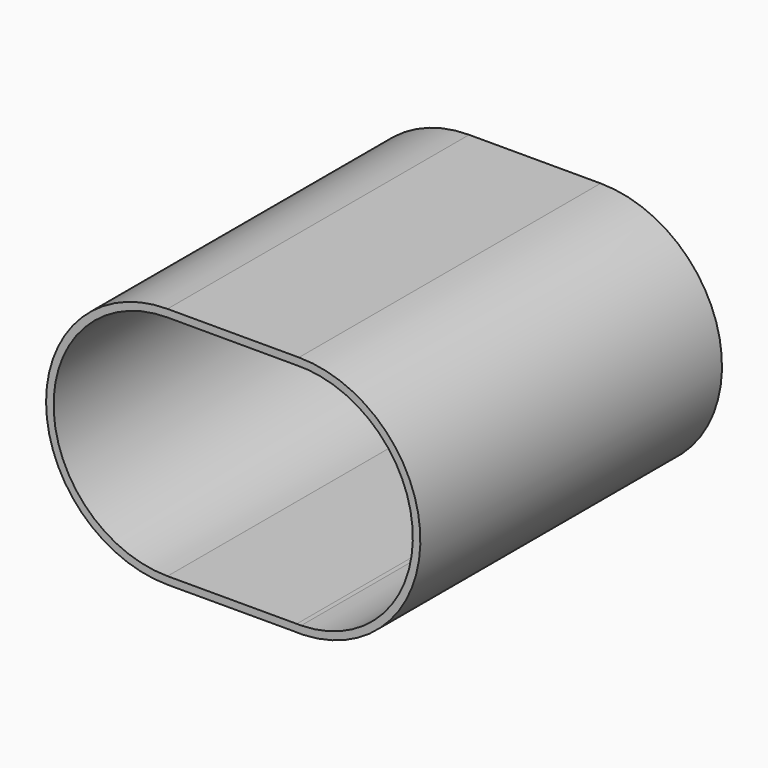
from build123d import *

# Parameters (mm, degrees)
F1_DEPTH      = 40
F1_DEPTH_BACK = 10
F3_DEPTH      = 50.001


with BuildPart() as f1:
    # F0 (on Front) → F1 (new body, two sides)
    with BuildSketch(Plane.XZ) as f1_sk:
        with BuildLine():
            Line((17.436, 16.1), (0, 16.1))
            ThreePointArc((0, 16.1), (-16.099998, -0.007624), (0.015248, -16.099993))
            Line((0.015248, -16.099993), (16.72223, -16.08417))
            Line((16.72223, -16.08417), (18.180234, -16.082789))
            ThreePointArc((18.180234, -16.082789), (33.531697, 0.372217), (17.436, 16.1))
        make_face()
        with BuildLine():
            Line((18.180234, -16.082789), (16.72223, -16.08417))
            ThreePointArc((16.72223, -16.08417), (17.451248, -16.099993), (18.180234, -16.082789))
        make_face()
    extrude(amount=F1_DEPTH)
    extrude(f1_sk.sketch, amount=-F1_DEPTH_BACK)

    # F2 (on face) → F3 (cut, through all)
    with BuildSketch(Plane(origin=(0, 10, 0), x_dir=(-1, 0, 0), z_dir=(0, 1, 0))):
        with BuildLine():
            Line((-0.010703, 15.101602), (-16.828976, 15.089396))
            ThreePointArc((-16.828976, 15.089396), (-32.528976, 0.45363), (-17.733005, -15.095482))
            Line((-17.733005, -15.095482), (-17.143441, -15.095579))
            Line((-17.143441, -15.095579), (-0.002223, -15.098393))
            ThreePointArc((-0.002223, -15.098393), (-0.001112, -15.098394), (0, -15.098394))
            ThreePointArc((0, -15.098394), (15.100256, 0.001606), (0, 15.101606))
            ThreePointArc((0, 15.101606), (-0.005351, 15.101605), (-0.010703, 15.101602))
        make_face()
        with BuildLine():
            Line((-17.143441, -15.095579), (-17.733005, -15.095482))
            ThreePointArc((-17.733005, -15.095482), (-17.438223, -15.098408), (-17.143441, -15.095579))
        make_face()
    extrude(amount=-F3_DEPTH, mode=Mode.SUBTRACT)


solid = f1.part
